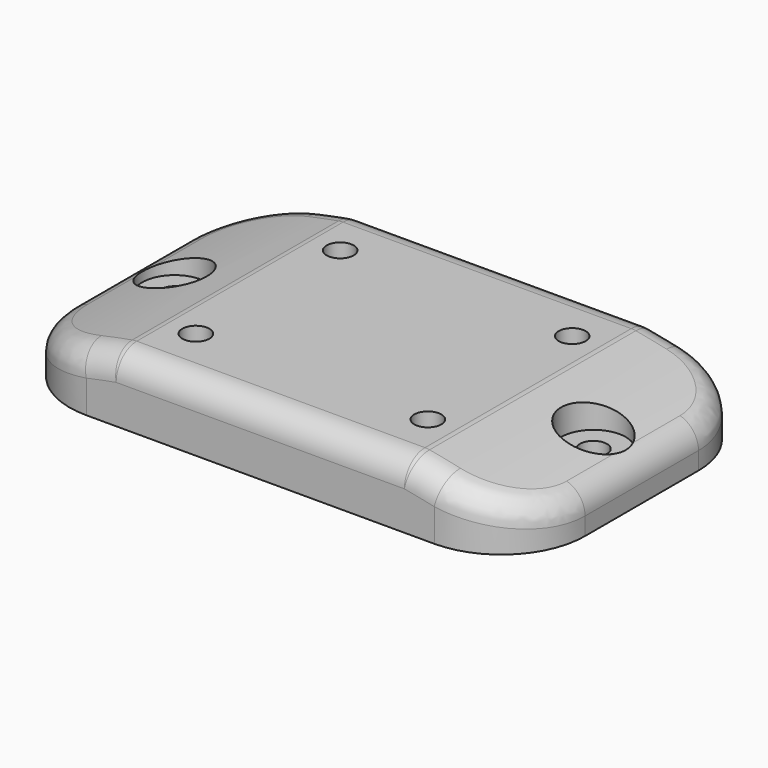
from build123d import *

# Parameters (mm, degrees)
SKETCH010_W          = 82
SKETCH010_H          = 12
PAD006_DEPTH         = 25
POCKET008_DEPTH      = 22
FILLET003_R          = 11
FILLET004_R          = 2
SKETCH007_W          = 2
SKETCH007_H          = 10
PAD011_DEPTH         = 23
PAD012_DEPTH         = 1
PAD013_DEPTH         = 1
SKETCH002_R          = 7
PAD014_DEPTH         = 11
PAD014_DEPTH_BACK    = 1
SKETCH003_R          = 7
PAD015_DEPTH         = 11
PAD015_DEPTH_BACK    = 1
SKETCH004_R          = 2.1
POCKET_DEPTH         = 1.001
POCKET_DEPTH_BACK    = -11.001
SKETCH005_R          = 5
POCKET009_DEPTH      = 1
POCKET009_DEPTH_BACK = -6
SKETCH006_R          = 5
POCKET010_DEPTH      = 6.001
PAD_DEPTH            = 24
FILLET_R             = 13
FILLET002_R          = 4


with BuildPart() as body:
    # Sketch010 → Pad006 (new body, symmetric)
    with BuildSketch(Plane.XZ):
        with Locations((0, 5)):
            Rectangle(SKETCH010_W, SKETCH010_H)
    extrude(amount=PAD006_DEPTH, both=True)

    # Sketch001 → Pocket008 (cut, symmetric)
    with BuildSketch(Plane.XZ):
        with BuildLine():
            Line((-38, 4.229293), (-38, -1))
            Line((-38, -1), (38, -1))
            Line((38, -1), (38, 4.229293))
            ThreePointArc((38, 4.229293), (30.328086, 6.355166), (22.538855, 8))
            Line((22.538855, 8), (-22.538855, 8))
            ThreePointArc((-22.538855, 8), (-30.328086, 6.355166), (-38, 4.229293))
        make_face()
    extrude(amount=POCKET008_DEPTH, both=True, mode=Mode.SUBTRACT)

    # Fillet003
    fillet003_edges = [body.edges().sort_by_distance(p)[0] for p in [
        (-38, -22, 1.614646),
        (38, -22, 1.614646),
        (-38, 22, 1.614646),
        (38, 22, 1.614646),
    ]]
    fillet(fillet003_edges, radius=FILLET003_R)

    # Fillet004
    fillet004_edges = [body.edges().sort_by_distance(p)[0] for p in [
        (-38, 0, 4.229293),
        (-34.727047, -18.828968, 5.199157),
        (-34.727047, 18.828968, 5.199157),
        (-24.773336, -22, 7.579783),
        (-24.773336, 22, 7.579783),
        (-22.538855, 0, 8),
        (22.538855, 0, 8),
        (0, -22, 8),
        (0, 22, 8),
        (38, 0, 4.229293),
        (34.727047, -18.828968, 5.199157),
        (34.727047, 18.828968, 5.199157),
        (24.773336, -22, 7.579783),
        (24.773336, 22, 7.579783),
    ]]
    fillet(fillet004_edges, radius=FILLET004_R)

    # Sketch007 → Pad011 (join, symmetric)
    with BuildSketch(Plane.XZ):
        with Locations((-18, 4)):
            Rectangle(SKETCH007_W, SKETCH007_H)
        with Locations((0, 4)):
            Rectangle(SKETCH007_W, SKETCH007_H)
        with Locations((18, 4)):
            Rectangle(SKETCH007_W, SKETCH007_H)
    extrude(amount=PAD011_DEPTH, both=True)

    # Sketch008 → Pad012 (join, symmetric)
    with BuildSketch(Plane.XZ.offset(-7.67)):
        with BuildLine():
            Line((-39, 4.963409), (-39, -1))
            Line((-39, -1), (39, -1))
            Line((39, -1), (39, 4.963409))
            ThreePointArc((39, 4.963409), (30.879737, 7.249518), (22.627417, 9))
            Line((22.627417, 9), (-22.627417, 9))
            ThreePointArc((-22.627417, 9), (-30.879737, 7.249518), (-39, 4.963409))
        make_face()
    extrude(amount=PAD012_DEPTH, both=True)

    # Sketch009 → Pad013 (join, symmetric)
    with BuildSketch(Plane.XZ.offset(7.67)):
        with BuildLine():
            Line((-39, 4.963409), (-39, -1))
            Line((-39, -1), (39, -1))
            Line((39, -1), (39, 4.963409))
            ThreePointArc((39, 4.963409), (30.879737, 7.249518), (22.627417, 9))
            Line((22.627417, 9), (-22.627417, 9))
            ThreePointArc((-22.627417, 9), (-30.879737, 7.249518), (-39, 4.963409))
        make_face()
    extrude(amount=PAD013_DEPTH, both=True)

    # Sketch002 → Pad014 (join, two sides)
    with BuildSketch(Plane.XY) as pad014_sk:
        with Locations((-18, 14)):
            Circle(SKETCH002_R)
        with Locations((-18, -14)):
            Circle(SKETCH002_R)
        with Locations((18, -14)):
            Circle(SKETCH002_R)
        with Locations((18, 14)):
            Circle(SKETCH002_R)
    extrude(amount=PAD014_DEPTH)
    extrude(pad014_sk.sketch, amount=-PAD014_DEPTH_BACK)

    # Sketch003 → Pad015 (join, two sides)
    with BuildSketch(Plane.XY) as pad015_sk:
        with Locations((-32.5, 0)):
            Circle(SKETCH003_R)
        with Locations((32.5, 0)):
            Circle(SKETCH003_R)
    extrude(amount=PAD015_DEPTH)
    extrude(pad015_sk.sketch, amount=-PAD015_DEPTH_BACK)

    # Sketch004 → Pocket (cut, two sides)
    with BuildSketch(Plane.XY) as pocket_sk:
        with Locations((-18, 14)):
            Circle(SKETCH004_R)
        with Locations((18, 14)):
            Circle(SKETCH004_R)
        with Locations((-18, -14)):
            Circle(SKETCH004_R)
        with Locations((18, -14)):
            Circle(SKETCH004_R)
        with Locations((-32.5, 0)):
            Circle(SKETCH004_R)
        with Locations((32.5, 0)):
            Circle(SKETCH004_R)
    extrude(amount=-POCKET_DEPTH, mode=Mode.SUBTRACT)
    extrude(pocket_sk.sketch, amount=-POCKET_DEPTH_BACK, mode=Mode.SUBTRACT)

    # Sketch005 → Pocket009 (cut, two sides)
    with BuildSketch(Plane.XY) as pocket009_sk:
        with Locations((-18, 14)):
            Circle(SKETCH005_R)
        with Locations((18, 14)):
            Circle(SKETCH005_R)
        with Locations((18, -14)):
            Circle(SKETCH005_R)
        with Locations((-18, -14)):
            Circle(SKETCH005_R)
    extrude(amount=-POCKET009_DEPTH, mode=Mode.SUBTRACT)
    extrude(pocket009_sk.sketch, amount=-POCKET009_DEPTH_BACK, mode=Mode.SUBTRACT)

    # Sketch006 → Pocket010 (cut, through all)
    with BuildSketch(Plane.XY.offset(5)):
        with Locations((-32.5, 0)):
            Circle(SKETCH006_R)
        with Locations((32.5, 0)):
            Circle(SKETCH006_R)
    extrude(amount=POCKET010_DEPTH, mode=Mode.SUBTRACT)


with BuildPart() as common:
    # Sketch → Pad (new body, symmetric)
    with BuildSketch(Plane.XZ):
        with BuildLine():
            Line((-40, 5.693169), (-40, 0))
            Line((-40, 0), (40, 0))
            Line((40, 0), (40, 5.693169))
            ThreePointArc((40, 5.693169), (31.43167, 8.142975), (22.715633, 10))
            Line((22.715633, 10), (-22.715633, 10))
            ThreePointArc((-22.715633, 10), (-31.43167, 8.142975), (-40, 5.693169))
        make_face()
    extrude(amount=PAD_DEPTH, both=True)

    # Fillet
    fillet_edges = [common.edges().sort_by_distance(p)[0] for p in [
        (-40, -24, 2.846584),
        (40, -24, 2.846584),
        (-40, 24, 2.846584),
        (40, 24, 2.846584),
    ]]
    fillet(fillet_edges, radius=FILLET_R)

    # Fillet002
    fillet002_edges = [common.edges().sort_by_distance(p)[0] for p in [
        (-40, 0, 5.693169),
        (-36.132504, 20.251885, 6.877709),
        (-36.132504, -20.251885, 6.877709),
        (-24.86132, 24, 9.600606),
        (-24.86132, -24, 9.600606),
        (-22.715633, 0, 10),
        (22.715633, 0, 10),
        (0, 24, 10),
        (0, -24, 10),
        (40, 0, 5.693169),
        (36.132504, 20.251885, 6.877709),
        (36.132504, -20.251885, 6.877709),
        (24.86132, 24, 9.600606),
        (24.86132, -24, 9.600606),
    ]]
    fillet(fillet002_edges, radius=FILLET002_R)

    add(body.part, mode=Mode.INTERSECT)


solid = common.part
